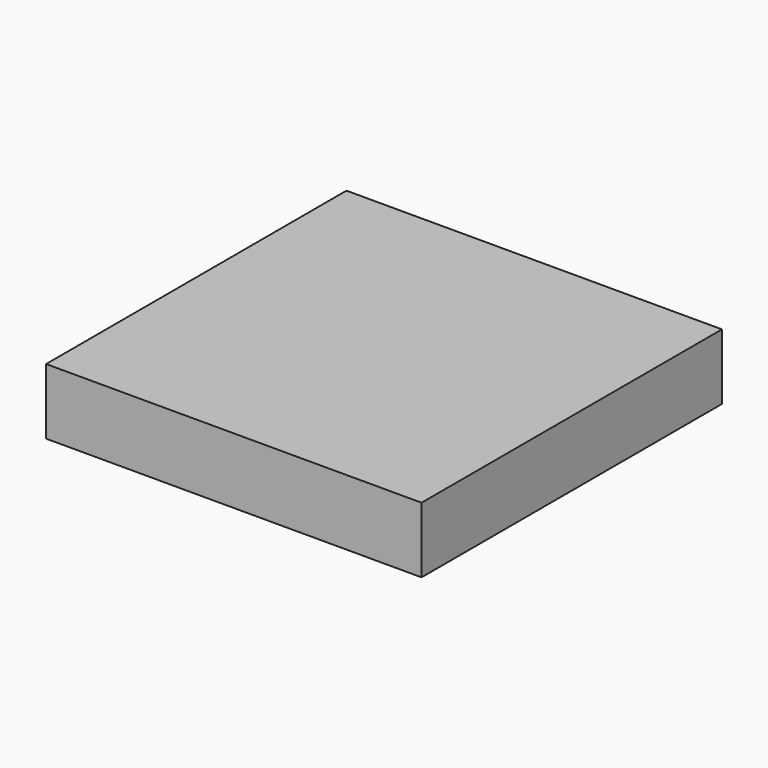
from build123d import *

# Parameters (mm, degrees)
F0_W     = 360
F0_H     = 360
F1_DEPTH = 30
F2_W     = 360
F2_H     = 360
F2_W_2   = 80
F2_H_2   = 100
F3_DEPTH = 33


with BuildPart() as f1:
    # F0 (on Top) → F1 (new body)
    with BuildSketch(Plane.XY):
        Rectangle(F0_W, F0_H)
    extrude(amount=F1_DEPTH)

    # F2 (on face) → F3 (join)
    with BuildSketch(Plane(origin=(0, 0, 0), x_dir=(1, 0, 0), z_dir=(0, 0, -1))):
        Rectangle(F2_W, F2_H)
        with Locations((-100, 0)):
            Rectangle(F2_W_2, F2_H_2, mode=Mode.SUBTRACT)
        with Locations((100, 0)):
            Rectangle(F2_W_2, F2_H_2, mode=Mode.SUBTRACT)
    extrude(amount=F3_DEPTH)


solid = f1.part
